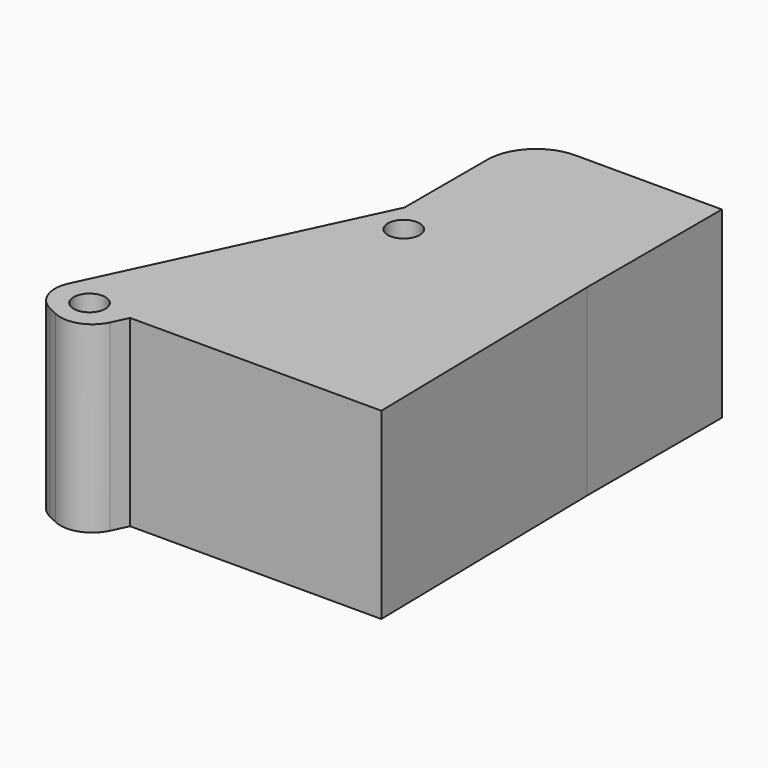
from build123d import *

# Parameters (mm, degrees)
F0_R     = 1.651
F1_DEPTH = 19.05
F2_R     = 1.651
F3_DEPTH = 19.05
F5_R     = 5.08
F6_R     = 3.302
F7_DEPTH = 12.7
F9_DEPTH = 19.05


with BuildPart() as f1:
    # F0 (on Top) → F1 (new body)
    with BuildSketch(Plane.XY):
        Polygon((9.4747359406, 29.0458423255), (-4.8540289035, -1.3629774042), (2.0390528077, -4.6110267455), (17.0947359406, 27.3404749561), (17.0947359406, 44.8664749561), (9.4747359406, 44.8664749561), align=None)
        Circle(F0_R, mode=Mode.SUBTRACT)
    extrude(amount=F1_DEPTH)

    # F2 (on face) → F3 (cut, through all)
    with BuildSketch(Plane.XY.offset(19.05)):
        Circle(F2_R)
        with Locations((11.811, 26.035)):
            Circle(F2_R)
    extrude(amount=-F3_DEPTH, mode=Mode.SUBTRACT)

    # F5
    f5_edges = [f1.edges().sort_by_distance(p)[0] for p in [
        (9.474736, 44.866475, 9.525),
    ]]
    fillet(f5_edges, radius=F5_R)

    # F6
    f6_edges = [f1.edges().sort_by_distance(p)[0] for p in [
        (-4.854029, -1.362977, 9.525),
        (2.039053, -4.611027, 9.525),
    ]]
    fillet(f6_edges, radius=F6_R)

    # F7 (add): a face of the model
    f7_faces = [f1.faces().sort_by_distance(p)[0] for p in [
        (17.0947359406, 36.1034749561, 9.525),
    ]]
    extrude(f7_faces, amount=F7_DEPTH)

    # F8 (on face) → F9 (join, through all)
    with BuildSketch(Plane.XY.offset(19.05)):
        Polygon((30.3130298853, 0), (29.7947359406, 27.3404749561), (17.0947359406, 27.3404749561), (4.2117881691, 0), align=None)
    extrude(amount=-F9_DEPTH)


solid = f1.part
